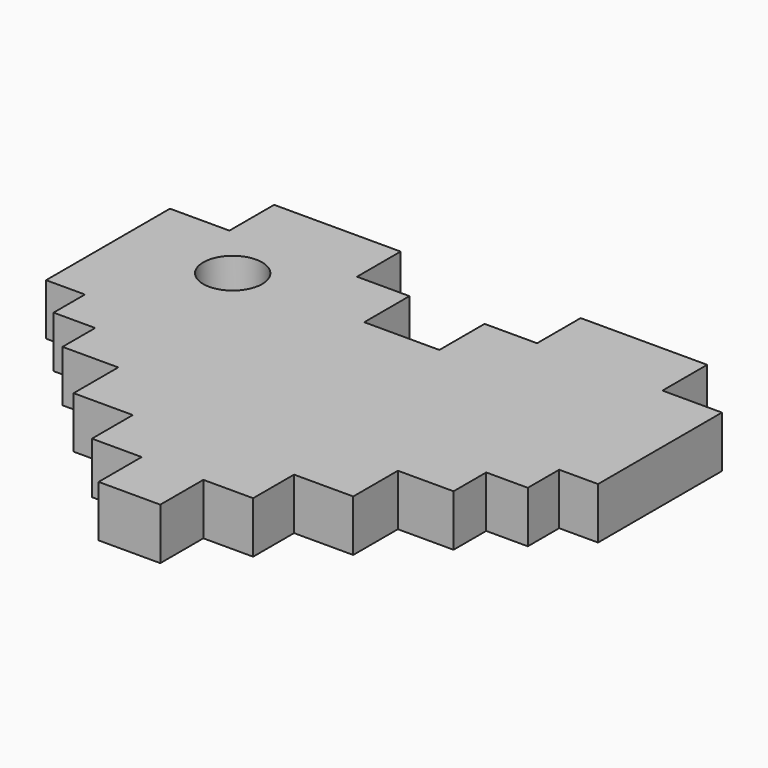
from build123d import *

# Parameters (mm, degrees)
F2_DEPTH = 1.75
F3_R     = 2
F4_DEPTH = 3.501


with BuildPart() as f2:
    # F1 (on Top) → F2 (new body, symmetric)
    with BuildSketch(Plane.XY):
        Polygon((-18.75, 5.700945), (-18.75, 0), (-18.75, -4.819782), (-16.109731, -4.819782), (-16.109731, -7.483373), (-13.283064, -7.483373), (-13.283064, -10.255682), (-9.499629, -10.255682), (-9.499629, -14.045903), (-5.477123, -14.045903), (-5.477123, -17.519886), (-2.094561, -17.519886), (-2.094561, -21.176709), (0, -21.176709), (2.094561, -21.176709), (2.094561, -17.519886), (5.477123, -17.519886), (5.477123, -14.045903), (9.499629, -14.045903), (9.499629, -10.255682), (13.283064, -10.255682), (13.283064, -7.483373), (16.109731, -7.483373), (16.109731, -4.819782), (18.75, -4.819782), (18.75, 0), (18.75, 5.700945), (14.710603, 5.700945), (14.710603, 9.496642), (6.117067, 9.496642), (6.117067, 5.792365), (2.551664, 5.792365), (2.551664, 1.9527), (0, 1.9527), (-2.551664, 1.9527), (-2.551664, 5.792365), (-6.117067, 5.792365), (-6.117067, 9.496642), (-14.710603, 9.496642), (-14.710603, 5.700945), align=None)
    extrude(amount=F2_DEPTH, both=True)

    # F3 (on face) → F4 (cut, through all)
    with BuildSketch(Plane.XY.offset(1.75)):
        with Locations((-11.519544, 1.989414)):
            Circle(F3_R)
    extrude(amount=-F4_DEPTH, mode=Mode.SUBTRACT)


solid = f2.part
